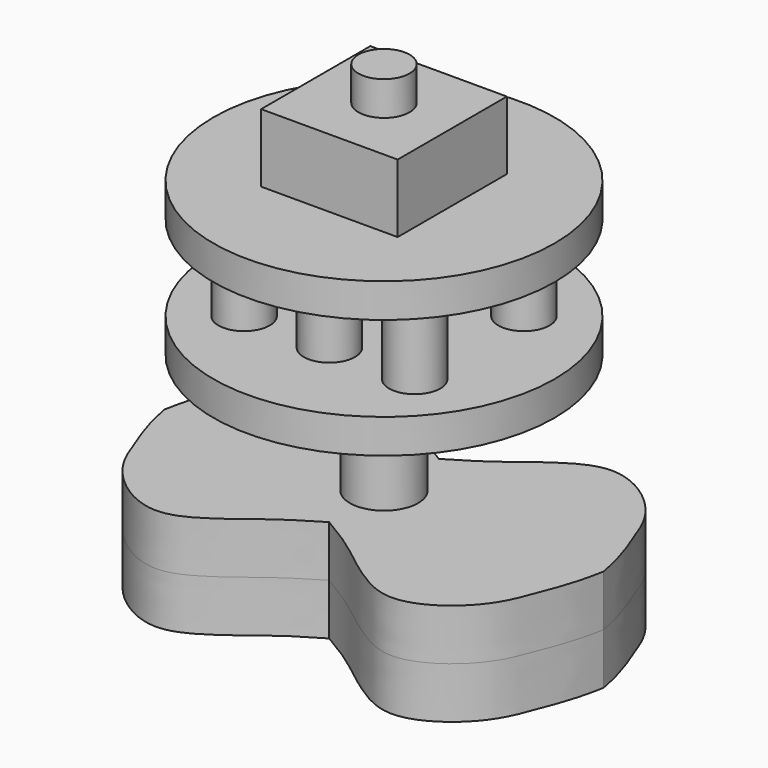
from build123d import *

# Parameters (mm, degrees)
F1_DEPTH  = 15
F2_R      = 10
F3_DEPTH  = 50
F5_R      = 50
F6_DEPTH  = 10
F7_R      = 7.5
F8_DEPTH  = 25
F10_R     = 50
F11_DEPTH = 10
F13_W     = 40
F13_H     = 40
F14_DEPTH = 25
F16_R     = 7.5
F17_DEPTH = 10


with BuildPart() as f1:
    # F0 (on Top) → F1 (new body, symmetric)
    with BuildSketch(Plane.XY):
        with BuildLine():
            add(Edge.make_bspline(
                [(0, 20.0754329562), (7.4676722288, 24.3426728994), (13.5930618791, 29.0380885537), (21.6158300602, 35.3377098016), (33.2006076429, 42.3287355464), (46.3499873813, 37.1768668468), (55.6956692254, 27.1688559136), (59.66880705, 15.6441890886), (62.7382826346, 8.2943669482), (64.2995685339, 0)],
                knots=[0, 0, 0, 0, 0.1623483, 0.2827683477, 0.4214675268, 0.5629118195, 0.7067186759, 0.8369694385, 1, 1, 1, 1], degree=3))
            add(Edge.make_bspline(
                [(0, 20.0754329562), (-7.4676722288, 24.3426728994), (-13.5930618791, 29.0380885537), (-21.6158300602, 35.3377098016), (-33.2006076429, 42.3287355464), (-46.3499873813, 37.1768668468), (-55.6956692254, 27.1688559136), (-59.66880705, 15.6441890886), (-62.7382826346, 8.2943669482), (-64.2995685339, 0)],
                knots=[0, 0, 0, 0, 0.1623483, 0.2827683477, 0.4214675268, 0.5629118195, 0.7067186759, 0.8369694385, 1, 1, 1, 1], degree=3))
            add(Edge.make_bspline(
                [(0, -20.0754329562), (-7.4676722288, -24.3426728994), (-13.5930618791, -29.0380885537), (-21.6158300602, -35.3377098016), (-33.2006076429, -42.3287355464), (-46.3499873813, -37.1768668468), (-55.6956692254, -27.1688559136), (-59.66880705, -15.6441890886), (-62.7382826346, -8.2943669482), (-64.2995685339, 0)],
                knots=[0, 0, 0, 0, 0.1623483, 0.2827683477, 0.4214675268, 0.5629118195, 0.7067186759, 0.8369694385, 1, 1, 1, 1], degree=3))
            add(Edge.make_bspline(
                [(0, -20.0754329562), (7.4676722288, -24.3426728994), (13.5930618791, -29.0380885537), (21.6158300602, -35.3377098016), (33.2006076429, -42.3287355464), (46.3499873813, -37.1768668468), (55.6956692254, -27.1688559136), (59.66880705, -15.6441890886), (62.7382826346, -8.2943669482), (64.2995685339, 0)],
                knots=[0, 0, 0, 0, 0.1623483, 0.2827683477, 0.4214675268, 0.5629118195, 0.7067186759, 0.8369694385, 1, 1, 1, 1], degree=3))
        make_face()
    extrude(amount=F1_DEPTH, both=True)


with BuildPart() as f3:
    # F2 (on Top) → F3 (new body)
    with BuildSketch(Plane.XY):
        Circle(F2_R)
    extrude(amount=F3_DEPTH)


with BuildPart() as f1_1:
    add(f1.part)

    # F4: cut F3
    add(f3.part, mode=Mode.SUBTRACT)


with BuildPart() as f3_1:
    add(f3.part)

    # F5 (on face) → F6 (join)
    with BuildSketch(Plane.XY.offset(50)):
        Circle(F5_R)
    extrude(amount=F6_DEPTH)

    # F7 (on face) → F8 (join)
    with BuildSketch(Plane.XY.offset(60)):
        with Locations((-25, 20)):
            Circle(F7_R)
        with Locations((0, 20)):
            Circle(F7_R)
        with Locations((25, 20)):
            Circle(F7_R)
        with Locations((25, -20)):
            Circle(F7_R)
        with Locations((0, -20)):
            Circle(F7_R)
        with Locations((-25, -20)):
            Circle(F7_R)
    extrude(amount=F8_DEPTH)

    # F10 (on offset) → F11 (join)
    with BuildSketch(Plane.XY.offset(85)):
        Circle(F10_R)
    extrude(amount=F11_DEPTH)


with BuildPart() as f14:
    # F13 (on offset) → F14 (new body)
    with BuildSketch(Plane.XY.offset(90)):
        Rectangle(F13_W, F13_H)
    extrude(amount=F14_DEPTH)


with BuildPart() as f3_2:
    add(f3_1.part)

    # F15: cut F14
    add(f14.part, mode=Mode.SUBTRACT)


with BuildPart() as f14_1:
    add(f14.part)

    # F16 (on face) → F17 (join)
    with BuildSketch(Plane.XY.offset(115)):
        Circle(F16_R)
    extrude(amount=F17_DEPTH)


solid = Compound([f1_1.part, f3_2.part, f14_1.part])
